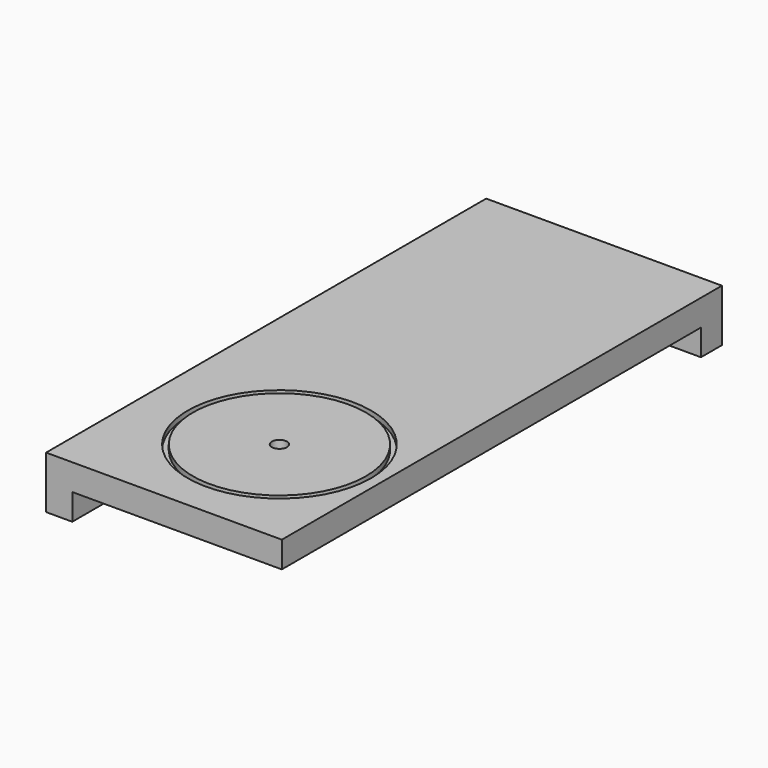
from build123d import *

# Parameters (mm, degrees)
F0_W     = 40
F0_H     = 100
F0_R     = 17.5
F0_R_2   = 1.45
F1_DEPTH = 5
F2_W     = 5
F2_H     = 100
F3_DEPTH = 10
F4_R     = 17.5
F4_R_2   = 16.5
F5_DEPTH = 1


with BuildPart() as f1:
    # F0 (on Top) → F1 (new body)
    with BuildSketch(Plane.XY):
        Rectangle(F0_W, F0_H)
        with Locations((0.5, -26.2)):
            Circle(F0_R, mode=Mode.SUBTRACT)
        with Locations((0.5, -26.2)):
            Circle(F0_R)
        with Locations((0.5, -26.2)):
            Circle(F0_R_2, mode=Mode.SUBTRACT)
    extrude(amount=-F1_DEPTH)

    # F2 (on face) → F3 (join)
    with BuildSketch(Plane.XY):
        with Locations((-22.5, 0)):
            Rectangle(F2_W, F2_H)
        Polygon((-25, 50), (-20, 50), (20, 50), (20, 55), (-25, 55), align=None)
    extrude(amount=-F3_DEPTH)

    # F4 (on face) → F5 (cut)
    with BuildSketch(Plane.XY):
        with Locations((0.5, -26.2)):
            Circle(F4_R)
        with Locations((0.5, -26.2)):
            Circle(F4_R_2, mode=Mode.SUBTRACT)
    extrude(amount=-F5_DEPTH, mode=Mode.SUBTRACT)


solid = f1.part
